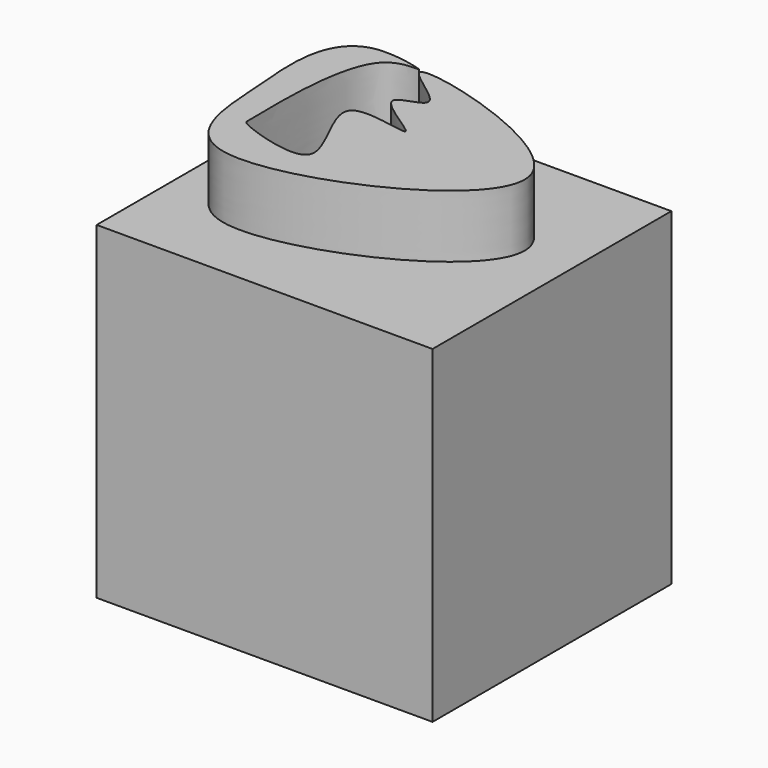
from build123d import *

# Parameters (mm, degrees)
F0_W     = 136.3293528557
F0_H     = 133.2611218095
F1_DEPTH = 121.158
F3_DEPTH = 25.4


with BuildPart() as f1:
    # F0 (on Front) → F1 (new body)
    with BuildSketch(Plane.XZ):
        with Locations((1.3565123081, -4.1866339743)):
            Rectangle(F0_W, F0_H)
    extrude(amount=F1_DEPTH)

    # F2 (on face) → F3 (join)
    with BuildSketch(Plane.XY.offset(62.4439269304)):
        with BuildLine():
            add(Edge.make_bspline(
                [(-35.336676985, -15.742700547), (-45.4173343222, -25.6909668771), (-42.9521647334, -73.1532922134), (-44.1394604892, -75.6733390582), (4.5439038967, -92.1150158627), (-40.9657310744, -36.0706347282), (17.6403327, -55.4476749537), (-28.6905558415, -31.6859484272), (4.998904435, -30.064172208), (-53.3604063222, 0.1340287549), (115.2538092755, -44.0220480489), (-52.6721030652, -119.9620556973), (-55.3021057669, -55.436185562), (-59.1226734701, -23.36667104), (-46.1079609086, -5.4564249244), (-13.9100726384, -14.2303776298), (-30.5769629578, -11.0454966629), (-35.336676985, -15.742700547)],
                knots=[0, 0, 0, 0, 0.092702723, 0.1176595804, 0.1827938569, 0.2531574401, 0.3116296696, 0.3687231085, 0.4098158678, 0.4657902584, 0.5749546447, 0.6968847525, 0.7774223674, 0.849046148, 0.9019469109, 0.9562291985, 1, 1, 1, 1], degree=3))
        make_face()
    extrude(amount=F3_DEPTH)


solid = f1.part
